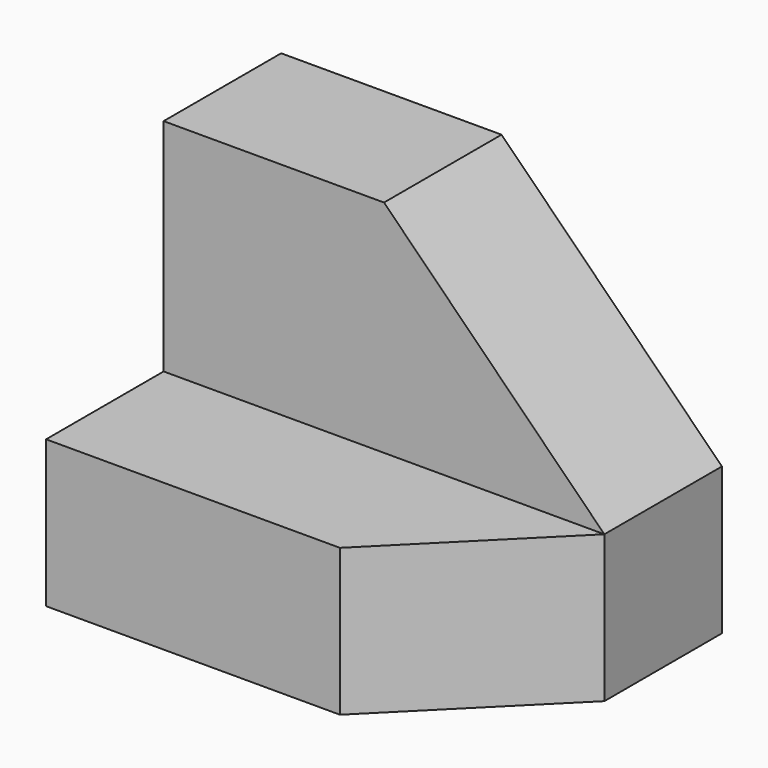
from build123d import *

# Parameters (mm, degrees)
F0_W     = 38.1
F0_H     = 31.75
F1_DEPTH = 25.4
F2_W     = 38.1
F2_H     = 12.7
F3_DEPTH = 19.05
F6_DEPTH = 12.7
F7_DEPTH = 12.7


with BuildPart() as f1:
    # F0 (on Front) → F1 (new body)
    with BuildSketch(Plane.XZ):
        with Locations((19.05, 15.875)):
            Rectangle(F0_W, F0_H)
    extrude(amount=F1_DEPTH)

    # F2 (on face) → F3 (cut)
    with BuildSketch(Plane.XY.offset(31.75)):
        with Locations((19.05, -19.05)):
            Rectangle(F2_W, F2_H)
    extrude(amount=-F3_DEPTH, mode=Mode.SUBTRACT)

    # F5 (on face) → F6 (cut)
    with BuildSketch(Plane.XZ.offset(12.7)):
        Polygon((38.1, 31.75), (19.05, 31.75), (38.1, 12.7), align=None)
    extrude(amount=-F6_DEPTH, mode=Mode.SUBTRACT)

    # F4 (on face) → F7 (cut)
    with BuildSketch(Plane.XY.offset(12.7)):
        Polygon((25.4, -25.4), (38.1, -25.4), (38.1, -12.7), align=None)
    extrude(amount=-F7_DEPTH, mode=Mode.SUBTRACT)


solid = f1.part
